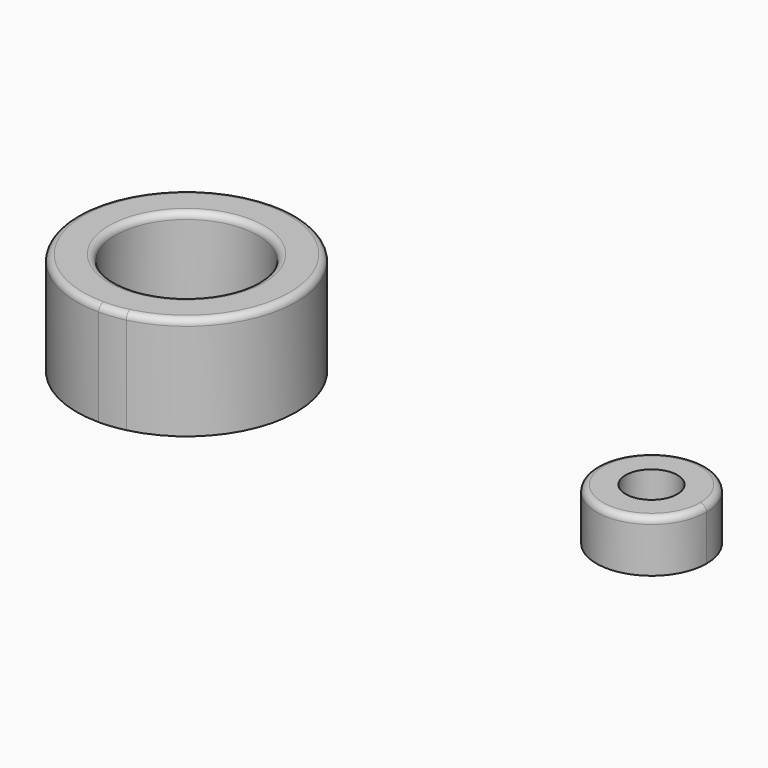
from build123d import *

# Parameters (mm, degrees)
F0_R     = 34.925
F1_DEPTH = 50.8
F0_R_2   = 12.7
F2_DEPTH = 25.4
F3_R     = 3.175
F4_R     = 3.175


with BuildPart() as f1:
    # F0 (on Top) → F1 (new body)
    with BuildSketch(Plane.XY):
        with BuildLine():
            ThreePointArc((-112.6568856922, 75.2160908667), (-118.8836269246, 76.3225332339), (-125.1970446721, 76.6930429243))
            Line((-125.1970446721, 76.6930429243), (-112.6568856922, 75.2160908667))
        make_face()
        with BuildLine():
            Line((-112.740459212, -29.7998978547), (-125.1970446721, -31.2569570757))
            ThreePointArc((-125.1970446721, -31.2569570757), (-118.9262882804, -30.8914547349), (-112.740459212, -29.7998978547))
        make_face()
        with BuildLine():
            Line((-112.6568856922, 75.2160908667), (-125.1970446721, 76.6930429243))
            ThreePointArc((-125.1970446721, 76.6930429243), (-179.1720446721, 22.7180429243), (-125.1970446721, -31.2569570757))
            Line((-125.1970446721, -31.2569570757), (-112.740459212, -29.7998978547))
            ThreePointArc((-112.740459212, -29.7998978547), (-82.8553109735, -10.7555020387), (-71.2220446721, 22.7180429243))
            ThreePointArc((-71.2220446721, 22.7180429243), (-82.8286855704, 56.1578810225), (-112.6568856922, 75.2160908667))
        make_face()
        with Locations((-125.1970446721, 22.7180429243)):
            Circle(F0_R, mode=Mode.SUBTRACT)
    extrude(amount=F1_DEPTH)

    # F3
    f3_edges = [f1.edges().sort_by_distance(p)[0] for p in [
        (-125.197045, -31.256957, 50.8),
        (-160.122045, 22.718043, 50.8),
    ]]
    fillet(f3_edges, radius=F3_R)


with BuildPart() as f2:
    # F0 (on Top) → F2 (new body)
    with BuildSketch(Plane.XY):
        with BuildLine():
            ThreePointArc((130.4539553279, 22.7180429243), (122.5309008658, 41.8459884622), (103.4029553279, 49.7690429243))
            ThreePointArc((103.4029553279, 49.7690429243), (84.27500979, 3.5900973865), (130.4539553279, 22.7180429243))
        make_face()
        with Locations((103.4029553279, 22.7180429243)):
            Circle(F0_R_2, mode=Mode.SUBTRACT)
    extrude(amount=F2_DEPTH)

    # F4
    f4_edges = [f2.edges().sort_by_distance(p)[0] for p in [
        (76.351955, 22.718043, 25.4),
    ]]
    fillet(f4_edges, radius=F4_R)


solid = Compound([f1.part, f2.part])
